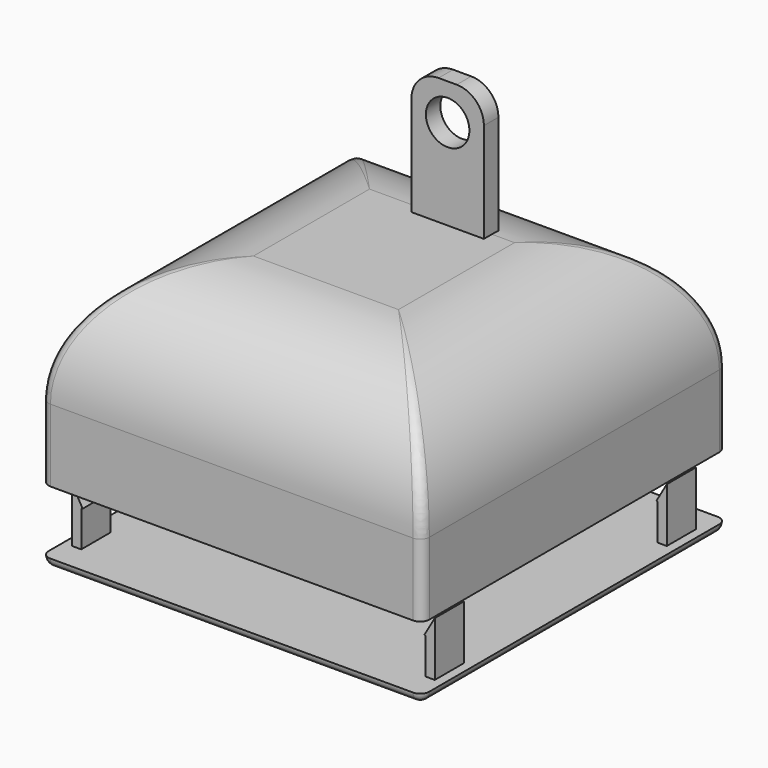
from build123d import *

# Parameters (mm, degrees)
BOX056_W               = 40
BOX056_H               = 40
BOX056_DEPTH           = 20
FILLET007_R            = 12
THICKNESS008_T         = 1
BOX064_W               = 1
BOX064_H               = 4
BOX064_DEPTH           = 4
BOX063_W               = 2
BOX063_H               = 4
BOX063_DEPTH           = 6
CUT027_ROLL_ANGLE      = -90
CUT027_PLACEMENT_ANGLE = 180
BOX062_W               = 1
BOX062_H               = 4
BOX062_DEPTH           = 4
BOX061_W               = 2
BOX061_H               = 4
BOX061_DEPTH           = 6
CUT026_ROLL_ANGLE      = -90
CUT026_PLACEMENT_ANGLE = 180
BOX060_W               = 1
BOX060_H               = 4
BOX060_DEPTH           = 4
BOX059_W               = 2
BOX059_H               = 4
BOX059_DEPTH           = 6
CUT025_PLACEMENT_ANGLE = 90
BOX058_W               = 1
BOX058_H               = 4
BOX058_DEPTH           = 4
BOX057_W               = 2
BOX057_H               = 4
BOX057_DEPTH           = 6
CUT024_PLACEMENT_ANGLE = 90
CYLINDER014_R          = 2.4
CYLINDER014_DEPTH      = 10
BOX053_W               = 8
BOX053_H               = 2
BOX053_DEPTH           = 15
FILLET005_R            = 3
BOX066_W               = 2
BOX066_H               = 3
BOX066_DEPTH           = 4
BOX066_PLACEMENT_ANGLE = 30
BOX068_W               = 1.2
BOX068_H               = 2
BOX068_DEPTH           = 4
BOX067_W               = 1
BOX067_H               = 6
BOX067_DEPTH           = 4
CUT028_PLACEMENT_ANGLE = 90
BOX069_W               = 2
BOX069_H               = 3
BOX069_DEPTH           = 4
BOX069_PLACEMENT_ANGLE = 30
BOX071_W               = 1.2
BOX071_H               = 2
BOX071_DEPTH           = 4
BOX070_W               = 1
BOX070_H               = 6
BOX070_DEPTH           = 4
CUT029_PLACEMENT_ANGLE = 90
BOX072_W               = 2
BOX072_H               = 3
BOX072_DEPTH           = 4
BOX072_PLACEMENT_ANGLE = 30
BOX074_W               = 1.2
BOX074_H               = 2
BOX074_DEPTH           = 4
BOX073_W               = 1
BOX073_H               = 6
BOX073_DEPTH           = 4
CUT030_ROLL_ANGLE      = -90
CUT030_PLACEMENT_ANGLE = 180
BOX075_W               = 2
BOX075_H               = 3
BOX075_DEPTH           = 4
BOX075_PLACEMENT_ANGLE = 30
BOX077_W               = 1.2
BOX077_H               = 2
BOX077_DEPTH           = 4
BOX076_W               = 1
BOX076_H               = 6
BOX076_DEPTH           = 4
CUT031_ROLL_ANGLE      = -90
CUT031_PLACEMENT_ANGLE = 180
BOX065_W               = 40
BOX065_H               = 40
BOX065_DEPTH           = 20
THICKNESS007_T         = 1
BOX055_W               = 42
BOX055_H               = 42
BOX055_DEPTH           = 1


with BuildPart() as thickness008:
    # Box056 → Box056 (new body)
    with BuildSketch(Plane.XY):
        with Locations((20, 20)):
            Rectangle(BOX056_W, BOX056_H)
    extrude(amount=BOX056_DEPTH)

    # Fillet007
    fillet007_edges = [thickness008.edges().sort_by_distance(p)[0] for p in [
        (0, 20, 20),
        (40, 20, 20),
        (20, 0, 20),
        (20, 40, 20),
    ]]
    fillet(fillet007_edges, radius=FILLET007_R)


with BuildPart() as thickness008_1:
    # Fillet007 placement: moved
    add(thickness008.part.moved(Location((0, 0, 1))))

    # Thickness008
    thickness008_openings = [thickness008_1.faces().sort_by_distance(p)[0] for p in [
        (20, 20, 1),
    ]]
    offset(amount=THICKNESS008_T, openings=thickness008_openings)


with BuildPart() as cube045:
    # Box064 → Box064 (new body)
    with BuildSketch(Plane(origin=(1, 0, 1), x_dir=(1, 0, 0), z_dir=(0, 0, 1))):
        with Locations((0.5, 2)):
            Rectangle(BOX064_W, BOX064_H)
    extrude(amount=BOX064_DEPTH)


with BuildPart() as cut027:
    # Box063 → Box063 (new body)
    with BuildSketch(Plane.XY):
        with Locations((1, 2)):
            Rectangle(BOX063_W, BOX063_H)
    extrude(amount=BOX063_DEPTH)

    # Cut027: cut Cube045
    add(cube045.part, mode=Mode.SUBTRACT)


with BuildPart() as cut027_1:
    # Cut027 roll: moved
    add(cut027.part.rotate(Axis((0, 0, 0), (1, 0, 0)), CUT027_ROLL_ANGLE))


with BuildPart() as cut027_2:
    # Cut027 placement: moved
    add(cut027_1.part.moved(Location((2, 39, 5))).rotate(Axis((2, 39, 5), (0, 0, 1)), CUT027_PLACEMENT_ANGLE))


with BuildPart() as cube043:
    # Box062 → Box062 (new body)
    with BuildSketch(Plane(origin=(1, 0, 1), x_dir=(1, 0, 0), z_dir=(0, 0, 1))):
        with Locations((0.5, 2)):
            Rectangle(BOX062_W, BOX062_H)
    extrude(amount=BOX062_DEPTH)


with BuildPart() as cut026:
    # Box061 → Box061 (new body)
    with BuildSketch(Plane.XY):
        with Locations((1, 2)):
            Rectangle(BOX061_W, BOX061_H)
    extrude(amount=BOX061_DEPTH)

    # Cut026: cut Cube043
    add(cube043.part, mode=Mode.SUBTRACT)


with BuildPart() as cut026_1:
    # Cut026 roll: moved
    add(cut026.part.rotate(Axis((0, 0, 0), (1, 0, 0)), CUT026_ROLL_ANGLE))


with BuildPart() as cut026_2:
    # Cut026 placement: moved
    add(cut026_1.part.moved(Location((2, 7, 5))).rotate(Axis((2, 7, 5), (0, 0, 1)), CUT026_PLACEMENT_ANGLE))


with BuildPart() as cube041:
    # Box060 → Box060 (new body)
    with BuildSketch(Plane(origin=(1, 0, 1), x_dir=(1, 0, 0), z_dir=(0, 0, 1))):
        with Locations((0.5, 2)):
            Rectangle(BOX060_W, BOX060_H)
    extrude(amount=BOX060_DEPTH)


with BuildPart() as cut025:
    # Box059 → Box059 (new body)
    with BuildSketch(Plane.XY):
        with Locations((1, 2)):
            Rectangle(BOX059_W, BOX059_H)
    extrude(amount=BOX059_DEPTH)

    # Cut025: cut Cube041
    add(cube041.part, mode=Mode.SUBTRACT)


with BuildPart() as cut025_1:
    # Cut025 placement: moved
    add(cut025.part.moved(Location((38, 39, 1))).rotate(Axis((38, 39, 1), (1, 0, 0)), CUT025_PLACEMENT_ANGLE))


with BuildPart() as cube039:
    # Box058 → Box058 (new body)
    with BuildSketch(Plane(origin=(1, 0, 1), x_dir=(1, 0, 0), z_dir=(0, 0, 1))):
        with Locations((0.5, 2)):
            Rectangle(BOX058_W, BOX058_H)
    extrude(amount=BOX058_DEPTH)


with BuildPart() as cut024:
    # Box057 → Box057 (new body)
    with BuildSketch(Plane.XY):
        with Locations((1, 2)):
            Rectangle(BOX057_W, BOX057_H)
    extrude(amount=BOX057_DEPTH)

    # Cut024: cut Cube039
    add(cube039.part, mode=Mode.SUBTRACT)


with BuildPart() as cut024_1:
    # Cut024 placement: moved
    add(cut024.part.moved(Location((38, 7, 1))).rotate(Axis((38, 7, 1), (1, 0, 0)), CUT024_PLACEMENT_ANGLE))


with BuildPart() as cylindre014:
    # Cylinder014 → Cylinder014 (new body)
    with BuildSketch(Plane(origin=(4, 4, 11), x_dir=(1, 0, 0), z_dir=(0, -1, 0))):
        Circle(CYLINDER014_R)
    extrude(amount=CYLINDER014_DEPTH)


with BuildPart() as paw_body:
    # Box053 → Box053 (new body)
    with BuildSketch(Plane.XY):
        with Locations((4, 1)):
            Rectangle(BOX053_W, BOX053_H)
    extrude(amount=BOX053_DEPTH)

    # Cut022: cut Cylindre014
    add(cylindre014.part, mode=Mode.SUBTRACT)


with BuildPart() as paw_body_1:
    # Cut022 placement: moved
    add(paw_body.part.moved(Location((17.5, 26.9, 86))))

    # Fillet005
    fillet005_edges = [paw_body_1.edges().sort_by_distance(p)[0] for p in [
        (17.5, 27.9, 101),
        (25.5, 27.9, 101),
    ]]
    fillet(fillet005_edges, radius=FILLET005_R)


with BuildPart() as paw_body_2:
    # Fillet005 placement: moved
    add(paw_body_1.part.moved(Location((0, 0, -65))))

    # Fusion021: union Thickness008, Cut027, Cut026, Cut025, Cut024
    add(thickness008_1.part)
    add(cut027_2.part)
    add(cut026_2.part)
    add(cut025_1.part)
    add(cut024_1.part)


with BuildPart() as cube046:
    # Box066 → Box066 (new body)
    with BuildSketch(Plane.XY):
        with Locations((1, 1.5)):
            Rectangle(BOX066_W, BOX066_H)
    extrude(amount=BOX066_DEPTH)


with BuildPart() as cube046_1:
    # Box066 placement: moved
    add(cube046.part.moved(Location((1, 0, 1))).rotate(Axis((1, 0, 1), (0, 0, -1)), BOX066_PLACEMENT_ANGLE))


with BuildPart() as cube048:
    # Box068 → Box068 (new body)
    with BuildSketch(Plane(origin=(1, 0, 1), x_dir=(1, 0, 0), z_dir=(0, 0, 1))):
        with Locations((0.6, 1)):
            Rectangle(BOX068_W, BOX068_H)
    extrude(amount=BOX068_DEPTH)


with BuildPart() as cut028:
    # Box067 → Box067 (new body)
    with BuildSketch(Plane(origin=(1, 0, 1), x_dir=(1, 0, 0), z_dir=(0, 0, 1))):
        with Locations((0.5, 3)):
            Rectangle(BOX067_W, BOX067_H)
    extrude(amount=BOX067_DEPTH)

    # Fusion022: union Cube048
    add(cube048.part)

    # Cut028: cut Cube046
    add(cube046_1.part, mode=Mode.SUBTRACT)


with BuildPart() as cut028_1:
    # Cut028 placement: moved
    add(cut028.part.moved(Location((-1, 1, 0))).rotate(Axis((-1, 1, 0), (-1, 0, 0)), CUT028_PLACEMENT_ANGLE))


with BuildPart() as cube049:
    # Box069 → Box069 (new body)
    with BuildSketch(Plane.XY):
        with Locations((1, 1.5)):
            Rectangle(BOX069_W, BOX069_H)
    extrude(amount=BOX069_DEPTH)


with BuildPart() as cube049_1:
    # Box069 placement: moved
    add(cube049.part.moved(Location((1, 0, 1))).rotate(Axis((1, 0, 1), (0, 0, -1)), BOX069_PLACEMENT_ANGLE))


with BuildPart() as cube051:
    # Box071 → Box071 (new body)
    with BuildSketch(Plane(origin=(1, 0, 1), x_dir=(1, 0, 0), z_dir=(0, 0, 1))):
        with Locations((0.6, 1)):
            Rectangle(BOX071_W, BOX071_H)
    extrude(amount=BOX071_DEPTH)


with BuildPart() as cut029:
    # Box070 → Box070 (new body)
    with BuildSketch(Plane(origin=(1, 0, 1), x_dir=(1, 0, 0), z_dir=(0, 0, 1))):
        with Locations((0.5, 3)):
            Rectangle(BOX070_W, BOX070_H)
    extrude(amount=BOX070_DEPTH)

    # Fusion023: union Cube051
    add(cube051.part)

    # Cut029: cut Cube049
    add(cube049_1.part, mode=Mode.SUBTRACT)


with BuildPart() as cut029_1:
    # Cut029 placement: moved
    add(cut029.part.moved(Location((-1, 33, 0))).rotate(Axis((-1, 33, 0), (-1, 0, 0)), CUT029_PLACEMENT_ANGLE))


with BuildPart() as cube052:
    # Box072 → Box072 (new body)
    with BuildSketch(Plane.XY):
        with Locations((1, 1.5)):
            Rectangle(BOX072_W, BOX072_H)
    extrude(amount=BOX072_DEPTH)


with BuildPart() as cube052_1:
    # Box072 placement: moved
    add(cube052.part.moved(Location((1, 0, 1))).rotate(Axis((1, 0, 1), (0, 0, -1)), BOX072_PLACEMENT_ANGLE))


with BuildPart() as cube054:
    # Box074 → Box074 (new body)
    with BuildSketch(Plane(origin=(1, 0, 1), x_dir=(1, 0, 0), z_dir=(0, 0, 1))):
        with Locations((0.6, 1)):
            Rectangle(BOX074_W, BOX074_H)
    extrude(amount=BOX074_DEPTH)


with BuildPart() as cut030:
    # Box073 → Box073 (new body)
    with BuildSketch(Plane(origin=(1, 0, 1), x_dir=(1, 0, 0), z_dir=(0, 0, 1))):
        with Locations((0.5, 3)):
            Rectangle(BOX073_W, BOX073_H)
    extrude(amount=BOX073_DEPTH)

    # Fusion024: union Cube054
    add(cube054.part)

    # Cut030: cut Cube052
    add(cube052_1.part, mode=Mode.SUBTRACT)


with BuildPart() as cut030_1:
    # Cut030 roll: moved
    add(cut030.part.rotate(Axis((0, 0, 0), (1, 0, 0)), CUT030_ROLL_ANGLE))


with BuildPart() as cut030_2:
    # Cut030 placement: moved
    add(cut030_1.part.moved(Location((41, 7, 0))).rotate(Axis((41, 7, 0), (0, 0, 1)), CUT030_PLACEMENT_ANGLE))


with BuildPart() as cube055:
    # Box075 → Box075 (new body)
    with BuildSketch(Plane.XY):
        with Locations((1, 1.5)):
            Rectangle(BOX075_W, BOX075_H)
    extrude(amount=BOX075_DEPTH)


with BuildPart() as cube055_1:
    # Box075 placement: moved
    add(cube055.part.moved(Location((1, 0, 1))).rotate(Axis((1, 0, 1), (0, 0, -1)), BOX075_PLACEMENT_ANGLE))


with BuildPart() as cube057:
    # Box077 → Box077 (new body)
    with BuildSketch(Plane(origin=(1, 0, 1), x_dir=(1, 0, 0), z_dir=(0, 0, 1))):
        with Locations((0.6, 1)):
            Rectangle(BOX077_W, BOX077_H)
    extrude(amount=BOX077_DEPTH)


with BuildPart() as cut031:
    # Box076 → Box076 (new body)
    with BuildSketch(Plane(origin=(1, 0, 1), x_dir=(1, 0, 0), z_dir=(0, 0, 1))):
        with Locations((0.5, 3)):
            Rectangle(BOX076_W, BOX076_H)
    extrude(amount=BOX076_DEPTH)

    # Fusion025: union Cube057
    add(cube057.part)

    # Cut031: cut Cube055
    add(cube055_1.part, mode=Mode.SUBTRACT)


with BuildPart() as cut031_1:
    # Cut031 roll: moved
    add(cut031.part.rotate(Axis((0, 0, 0), (1, 0, 0)), CUT031_ROLL_ANGLE))


with BuildPart() as cut031_2:
    # Cut031 placement: moved
    add(cut031_1.part.moved(Location((41, 39, 0))).rotate(Axis((41, 39, 0), (0, 0, 1)), CUT031_PLACEMENT_ANGLE))


with BuildPart() as thickness007:
    # Box065 → Box065 (new body)
    with BuildSketch(Plane.XY):
        with Locations((20, 20)):
            Rectangle(BOX065_W, BOX065_H)
    extrude(amount=BOX065_DEPTH)

    # Thickness007
    thickness007_openings = [thickness007.faces().sort_by_distance(p)[0] for p in [
        (20, 20, 20),
    ]]
    offset(amount=THICKNESS007_T, openings=thickness007_openings)


with BuildPart() as paw_side:
    # Box055 → Box055 (new body)
    with BuildSketch(Plane(origin=(-1, -1, -1), x_dir=(1, 0, 0), z_dir=(0, 0, 1))):
        with Locations((21, 21)):
            Rectangle(BOX055_W, BOX055_H)
    extrude(amount=BOX055_DEPTH)

    # Common001: intersect Thickness007
    add(thickness007.part, mode=Mode.INTERSECT)


with BuildPart() as paw_side_1:
    # Common001 placement: moved
    add(paw_side.part.moved(Location((0, 0, -6))))

    # Fusion026: union Cut028, Cut029, Cut030, Cut031
    add(cut028_1.part)
    add(cut029_1.part)
    add(cut030_2.part)
    add(cut031_2.part)


solid = Compound([paw_body_2.part, paw_side_1.part])
